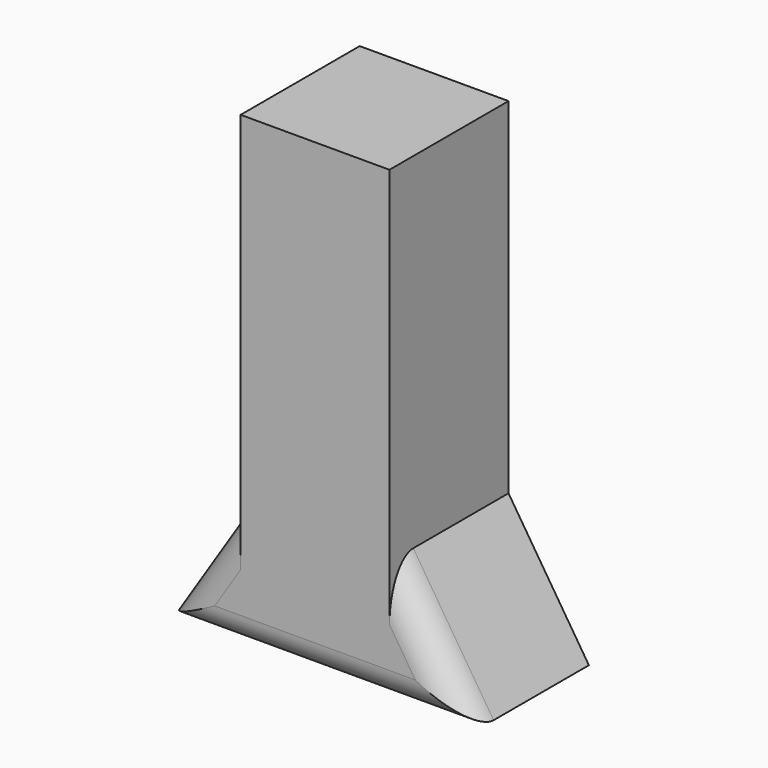
from build123d import *

# Parameters (mm, degrees)
F0_W     = 25.4
F0_H     = 58.92757
F1_DEPTH = 25.4
F2_R     = 5.08


with BuildPart() as f1:
    # F0 (on Front) → F1 (new body)
    with BuildSketch(Plane.XZ):
        with Locations((0.082556, 29.463785)):
            Rectangle(F0_W, F0_H)
        Polygon((12.782556, 0), (-12.617444, 0), (-26.336173, -21.37654), (26.501286, -21.37654), align=None)
    extrude(amount=F1_DEPTH)

    # F2
    f2_edges = [f1.edges().sort_by_distance(p)[0] for p in [
        (-19.476808, -25.4, -10.68827),
        (0.082556, -25.4, -21.37654),
        (19.641921, -25.4, -10.68827),
    ]]
    fillet(f2_edges, radius=F2_R)


solid = f1.part
